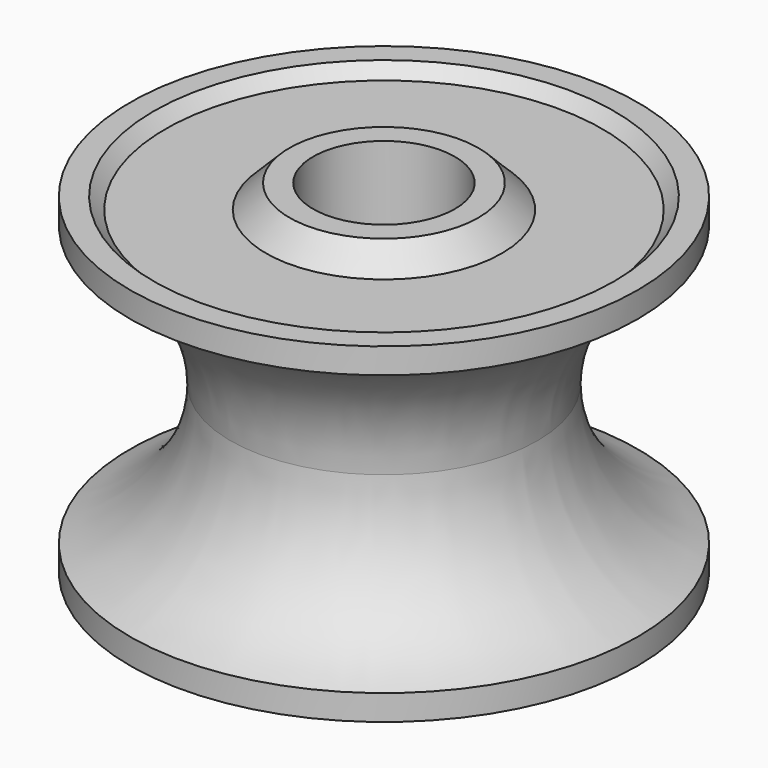
from build123d import *


with BuildPart() as f1:
    # F0 (on Front) → F1 (revolve)
    with BuildSketch(Plane.XZ):
        with BuildLine():
            Line((8, 30), (6, 30))
            Line((6, 30), (6, 0))
            Line((6, 0), (8, 0))
            Line((8, 0), (10, 2))
            Line((10, 2), (18.5, 2))
            Line((18.5, 2), (19.5, 1))
            Line((19.5, 1), (21.5, 1))
            Line((21.5, 1), (21.5, 3.157281))
            ThreePointArc((21.5, 3.157281), (15.344952, 7.71131), (13, 15))
            ThreePointArc((13, 15), (15.344952, 22.28869), (21.5, 26.842719))
            Line((21.5, 26.842719), (21.5, 29))
            Line((21.5, 29), (19.5, 29))
            Line((19.5, 29), (18.5, 28))
            Line((18.5, 28), (10, 28))
            Line((10, 28), (8, 30))
        make_face()
    revolve(axis=Axis((0, 0, 22.736409), (0, 0, 1)))


solid = f1.part
